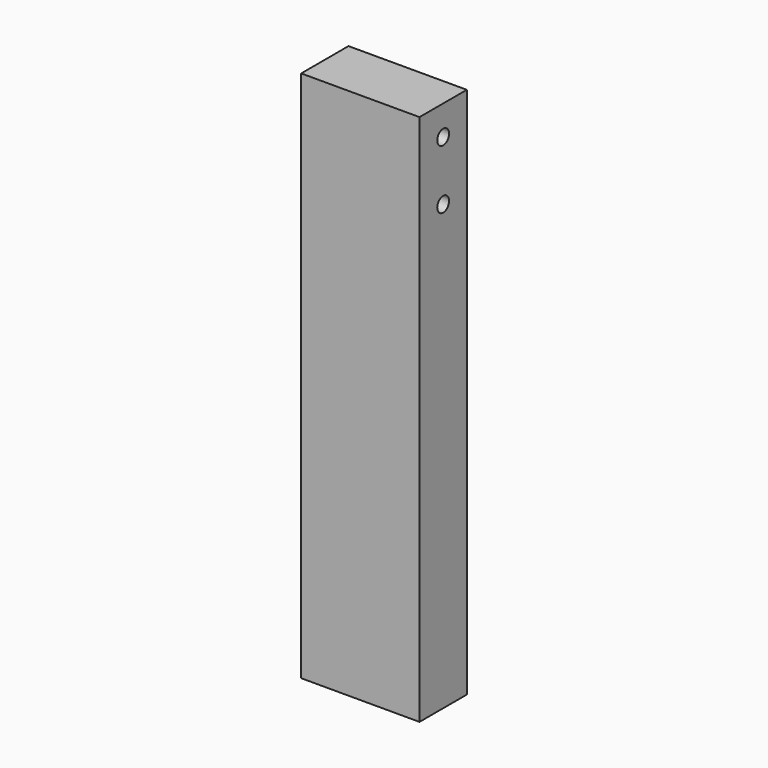
from build123d import *

# Parameters (mm, degrees)
F0_W     = 50.8
F0_H     = 228.6
F1_DEPTH = 25.4
F3_D     = 6.35
F3_DEPTH = 12.7
F3_TIP   = 1.9077324654


with BuildPart() as f1:
    # F0 (on Front) → F1 (new body)
    with BuildSketch(Plane.XZ):
        with Locations((25.4, 114.3)):
            Rectangle(F0_W, F0_H)
    extrude(amount=F1_DEPTH)

    # F3
    with Locations(Plane.YZ.offset(50.8)):
        with Locations((-12.7, 215.9), (-12.7, 190.5)):
            Hole(F3_D / 2, depth=F3_DEPTH)
            with Locations((0, 0, -(F3_DEPTH + F3_TIP / 2))):  # 118° drill point
                Cone(0, F3_D / 2, F3_TIP, mode=Mode.SUBTRACT)


solid = f1.part
